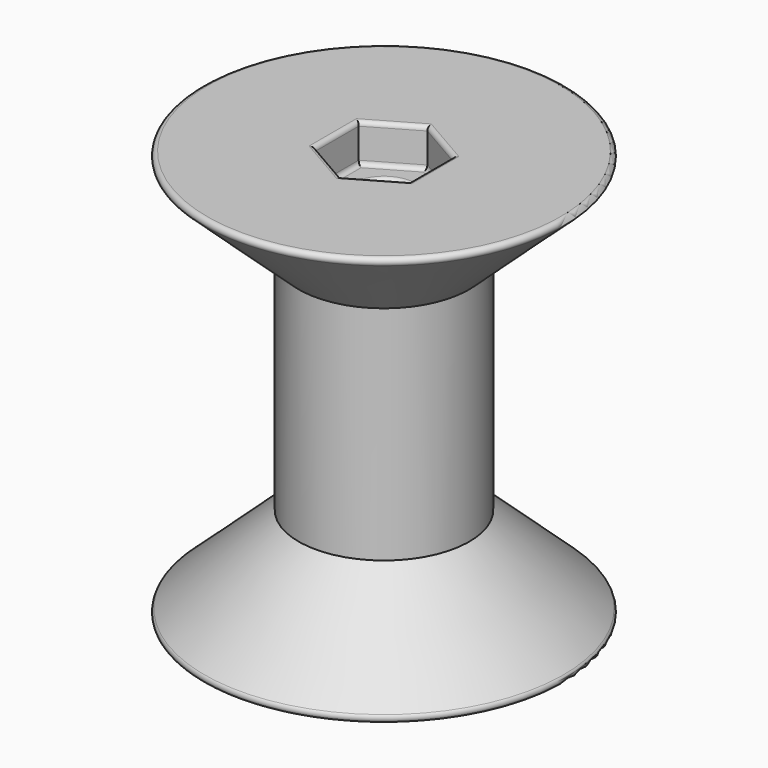
from build123d import *

# Parameters (mm, degrees)
F3_DEPTH = 4.5
F4_R     = 6.35
F4_R_2   = 3.2
F5_DEPTH = 5
F6_T     = -1.5
F7_R     = 0.5


with BuildPart() as f1:
    # F0 (on Right) → F1 (revolve)
    with BuildSketch(Plane.YZ):
        Polygon((3.2, 48), (3.2, 0), (22, 0), (10, 11), (10, 37), (22, 48), align=None)
    revolve(axis=Axis((0, 0, 22.5522555411), (0, 0, -1)))

    # F2 (on face) → F3 (cut)
    with BuildSketch(Plane.XY.offset(48)):
        Polygon((5.499261314, -3.175), (5.499261314, 3.175), (0, 6.35), (-5.499261314, 3.175), (-5.499261314, -3.175), (0, -6.35), align=None)
    extrude(amount=-F3_DEPTH, mode=Mode.SUBTRACT)

    # F4 (on face) → F5 (cut)
    with BuildSketch(Plane(origin=(0, 0, 0), x_dir=(1, 0, 0), z_dir=(0, 0, -1))):
        Circle(F4_R)
        Circle(F4_R_2, mode=Mode.SUBTRACT)
    extrude(amount=-F5_DEPTH, mode=Mode.SUBTRACT)

    # F6 (hollow: no face is removed)
    offset(amount=F6_T, kind=Kind.INTERSECTION, mode=Mode.SUBTRACT)

    # F7
    f7_edges = [f1.edges().sort_by_distance(p)[0] for p in [
        (0, -22, 48),
        (2.749631, -4.7625, 48),
        (-2.749631, -4.7625, 48),
        (-5.499261, 0, 48),
        (-2.749631, 4.7625, 48),
        (2.749631, 4.7625, 48),
        (5.499261, 0, 48),
        (5.499261, 0, 43.5),
        (2.749631, -4.7625, 43.5),
        (2.749631, 4.7625, 43.5),
        (-2.749631, -4.7625, 43.5),
        (-2.749631, 4.7625, 43.5),
        (-5.499261, 0, 43.5),
        (0, -3.2, 43.5),
        (0, -22, 0),
        (-6.35, 0, 0),
        (-6.35, 0, 5),
        (0, -3.2, 5),
    ]]
    fillet(f7_edges, radius=F7_R)


solid = f1.part
